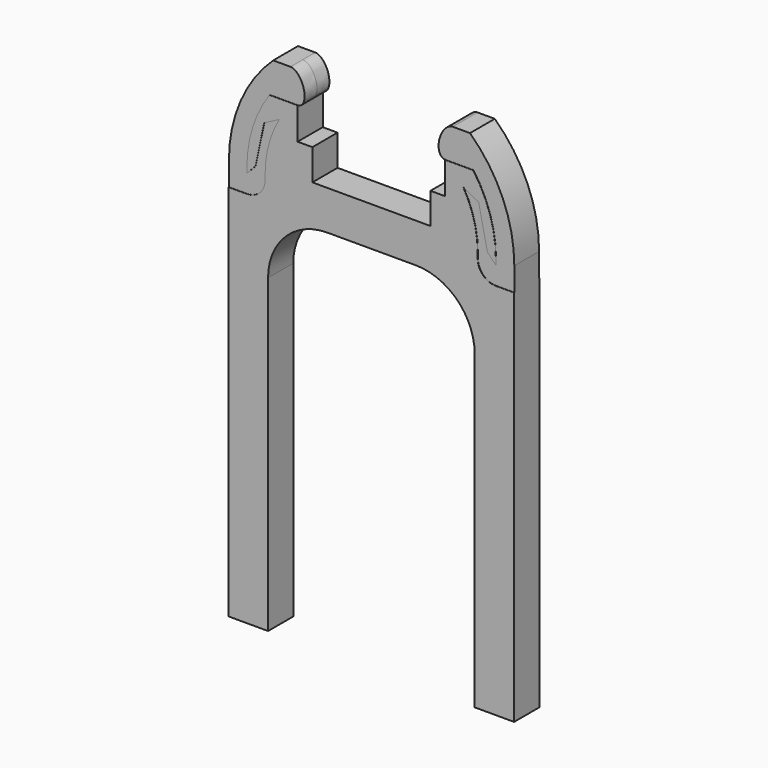
from build123d import *

# Parameters (mm, degrees)
F2_DEPTH = 3.2
F3_DEPTH = 3.15


with BuildPart() as f2:
    # F1 (on Front) → F2 (new body, symmetric)
    with BuildSketch(Plane.XZ):
        with BuildLine():
            Line((12, 6.3), (12, 0))
            Line((12, 0), (-12, 0))
            Line((-12, 0), (-12, 6.3))
            Line((-12, 6.3), (-15, 6.3))
            Line((-15, 6.3), (-15, 12.8))
            Line((-15, 12.8), (-20.6991873327, 12.8))
            ThreePointArc((-20.6991873327, 12.8), (-24.1218523847, 5.9585626477), (-25.3, -1.6))
            Line((-25.3, -1.6), (-25.3, -2.7))
            Line((-25.3, -2.7), (-23.56463857, -0.8764211088))
            Line((-23.56463857, -0.8764211088), (-21.7944681644, 7.4581257068))
            Line((-21.7944681644, 7.4581257068), (-18.7, 9.085327427))
            ThreePointArc((-18.7, 9.085327427), (-20.8621196327, 3.9359331242), (-21.6, -1.6))
            Line((-21.6, -1.6), (-21.6, -2.7))
            ThreePointArc((-21.6, -2.7), (-22.6837049096, -5.3162950904), (-25.3, -6.4))
            Line((-25.3, -6.4), (-29, -6.4))
            Line((-29, -6.4), (-29, -83.2))
            Line((-29, -83.2), (-21, -83.2))
            Line((-21, -83.2), (-21, -20))
            ThreePointArc((-21, -20), (-17.4852813742, -11.5147186258), (-9, -8))
            Line((-9, -8), (9, -8))
            ThreePointArc((9, -8), (17.4852813742, -11.5147186258), (21, -20))
            Line((21, -20), (21, -83.2))
            Line((21, -83.2), (29, -83.2))
            Line((29, -83.2), (29, -6.4))
            Line((29, -6.4), (25.3, -6.4))
            ThreePointArc((25.3, -6.4), (22.6837049096, -5.3162950904), (21.6, -2.7))
            Line((21.6, -2.7), (21.6, -1.6))
            ThreePointArc((21.6, -1.6), (20.8621196327, 3.9359331242), (18.7, 9.085327427))
            Line((18.7, 9.085327427), (21.7944681644, 7.4581257068))
            Line((21.7944681644, 7.4581257068), (23.56463857, -0.8764211088))
            Line((23.56463857, -0.8764211088), (25.3, -2.7))
            Line((25.3, -2.7), (25.3, -1.6))
            ThreePointArc((25.3, -1.6), (24.1218523847, 5.9585626477), (20.6991873327, 12.8))
            Line((20.6991873327, 12.8), (15, 12.8))
            Line((15, 12.8), (15, 6.3))
            Line((15, 6.3), (12, 6.3))
        make_face()
    extrude(amount=F2_DEPTH, both=True)

    # F1 (on Front) → F3 (join, symmetric)
    with BuildSketch(Plane.XZ):
        with BuildLine():
            Line((-20.6991873327, 12.8), (-15, 12.8))
            add(Edge.make_bspline(
                [(-14.9999999623, 12.8), (-13, 12.8), (-13.7499999859, 15.9999999397), (-14.4999999717, 19.1999998793), (-16.4999999623, 19.2)],
                knots=[6.0755071162, 6.0755071162, 6.0755071162, 7.6463034241, 7.6463034241, 9.217099732, 9.217099732, 9.217099732], degree=2, weights=[1, 0.7071067879, 1, 0.7071067879, 1]))
            Line((-16.5, 19.2), (-20, 19.2))
            ThreePointArc((-20, 19.2), (-26.653524819, 9.7318136236), (-29, -1.6))
            Line((-29, -1.6), (-29, -6.4))
            Line((-29, -6.4), (-25.3, -6.4))
            ThreePointArc((-25.3, -6.4), (-22.6837049096, -5.3162950904), (-21.6, -2.7))
            Line((-21.6, -2.7), (-21.6, -1.6))
            ThreePointArc((-21.6, -1.6), (-20.8621196327, 3.9359331242), (-18.7, 9.085327427))
            Line((-18.7, 9.085327427), (-21.7944681644, 7.4581257068))
            Line((-21.7944681644, 7.4581257068), (-23.56463857, -0.8764211088))
            Line((-23.56463857, -0.8764211088), (-25.3, -2.7))
            Line((-25.3, -2.7), (-25.3, -1.6))
            ThreePointArc((-25.3, -1.6), (-24.1218523847, 5.9585626477), (-20.6991873327, 12.8))
        make_face()
        with BuildLine():
            add(Edge.make_bspline(
                [(16.5, 19.2), (14.5000000377, 19.2), (13.7500000377, 16), (13.0000000377, 12.8), (15, 12.8)],
                knots=[0.2076781757, 0.2076781757, 0.2076781757, 1.7784745025, 1.7784745025, 3.3492708293, 3.3492708293, 3.3492708293], degree=2, weights=[1, 0.7071067812, 1, 0.7071067812, 1]))
            Line((15, 12.8), (20.6991873327, 12.8))
            ThreePointArc((20.6991873327, 12.8), (24.1218523847, 5.9585626477), (25.3, -1.6))
            Line((25.3, -1.6), (25.3, -2.7))
            Line((25.3, -2.7), (23.56463857, -0.8764211088))
            Line((23.56463857, -0.8764211088), (21.7944681644, 7.4581257068))
            Line((21.7944681644, 7.4581257068), (18.7, 9.085327427))
            ThreePointArc((18.7, 9.085327427), (20.8621196327, 3.9359331242), (21.6, -1.6))
            Line((21.6, -1.6), (21.6, -2.7))
            ThreePointArc((21.6, -2.7), (22.6837049096, -5.3162950904), (25.3, -6.4))
            Line((25.3, -6.4), (29, -6.4))
            Line((29, -6.4), (29, -1.6))
            ThreePointArc((29, -1.6), (26.653524819, 9.7318136236), (20, 19.2))
            Line((20, 19.2), (16.5, 19.2))
        make_face()
    extrude(amount=F3_DEPTH, both=True)


solid = f2.part
